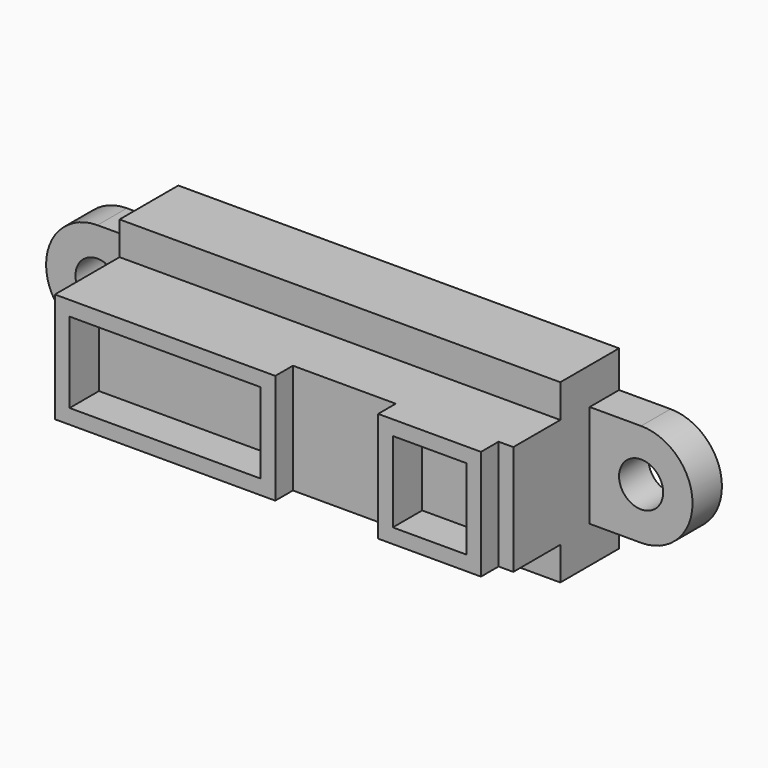
from build123d import *

# Parameters (mm, degrees)
F0_W     = 30
F0_H     = 12
F1_DEPTH = 5
F2_W     = 30
F2_H     = 7.47772
F3_DEPTH = 4
F4_W     = 15
F4_H     = 7.47772
F4_W_2   = 7
F5_DEPTH = 1.5
F6_W     = 13
F6_H     = 5.47772
F6_W_2   = 5
F7_DEPTH = 2.5
F8_R     = 1.5
F9_DEPTH = 2.5


with BuildPart() as f1:
    # F0 (on Front) → F1 (new body)
    with BuildSketch(Plane.XZ):
        Rectangle(F0_W, F0_H)
    extrude(amount=F1_DEPTH)

    # F2 (on face) → F3 (join)
    with BuildSketch(Plane.XZ.offset(5)):
        Rectangle(F2_W, F2_H)
    extrude(amount=F3_DEPTH)

    # F4 (on face) → F5 (join)
    with BuildSketch(Plane.XZ.offset(9)):
        with Locations((-7.5, 0)):
            Rectangle(F4_W, F4_H)
        with Locations((10.5, 0)):
            Rectangle(F4_W_2, F4_H)
    extrude(amount=F5_DEPTH)

    # F6 (on face) → F7 (cut)
    with BuildSketch(Plane.XZ.offset(10.5)):
        with Locations((-7.5, 0)):
            Rectangle(F6_W, F6_H)
        with Locations((10.5, 0)):
            Rectangle(F6_W_2, F6_H)
    extrude(amount=-F7_DEPTH, mode=Mode.SUBTRACT)

    # F8 (on face) → F9 (join)
    with BuildSketch(Plane(origin=(0, 0, 0), x_dir=(-1, 0, 0), z_dir=(0, 1, 0))):
        with BuildLine():
            Line((-15, 3.5), (-18.5, 3.5))
            ThreePointArc((-18.5, 3.5), (-22, 0), (-18.5, -3.5))
            Line((-18.5, -3.5), (-15, -3.5))
            Line((-15, -3.5), (-15, 3.5))
        make_face()
        with Locations((-18.5, 0)):
            Circle(F8_R, mode=Mode.SUBTRACT)
        with BuildLine():
            Line((18.5, 3.5), (15, 3.5))
            Line((15, 3.5), (15, -3.5))
            Line((15, -3.5), (18.5, -3.5))
            ThreePointArc((18.5, -3.5), (22, 0), (18.5, 3.5))
        make_face()
        with Locations((18.5, 0)):
            Circle(F8_R, mode=Mode.SUBTRACT)
    extrude(amount=-F9_DEPTH)


solid = f1.part
